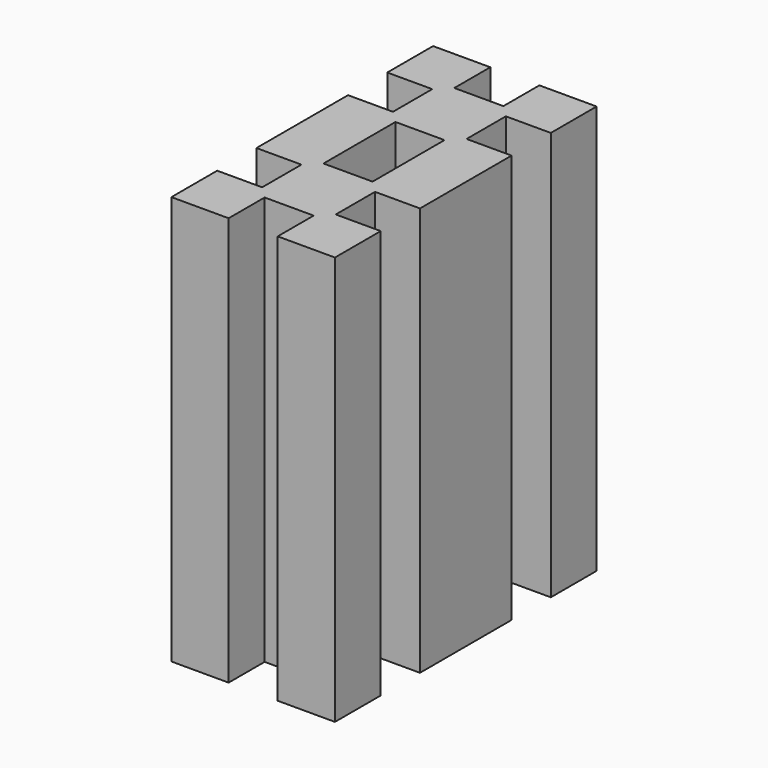
from build123d import *

# Parameters (mm, degrees)
F1_DEPTH = 50


with BuildPart() as f1:
    # F0 (on Top) → F1 (new body)
    with BuildSketch(Plane.XY):
        Polygon((0, 7), (0, 0), (7, 0), (7, 5.5), (13, 5.5), (13, 0), (20, 0), (20, 7), (14.5, 7), (14.5, 13), (20, 13), (20, 20), (13, 20), (13, 14.5), (7, 14.5), (7, 20), (0, 20), (0, 13), (5.5, 13), (5.5, 7), align=None)
        Polygon((7, 0), (0, 0), (0, -7), (5.5, -7), (5.5, -13), (0, -13), (0, -20), (7, -20), (7, -14.5), (13, -14.5), (13, -20), (20, -20), (20, -13), (14.5, -13), (14.5, -7), (20, -7), (20, 0), (13, 0), (13, -5.5), (7, -5.5), align=None)
    extrude(amount=F1_DEPTH)


solid = f1.part
